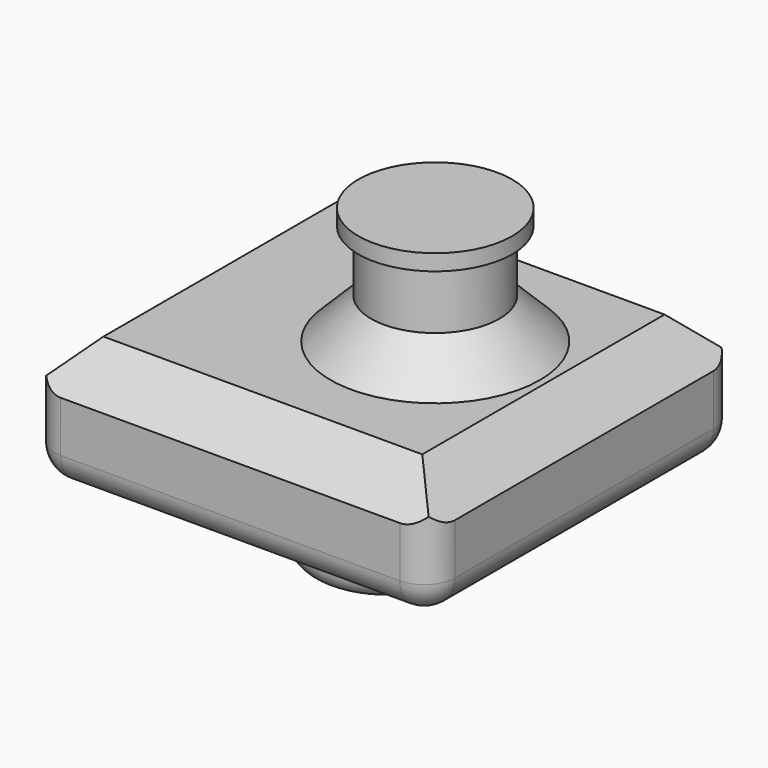
from build123d import *

# Parameters (mm, degrees)
F0_W     = 25
F0_H     = 24
F1_DEPTH = 7.62
F2_R     = 4
F3_DEPTH = 6.35
F4_R     = 4.8022038817
F4_R_2   = 4
F5_DEPTH = 1
F6_SIZE  = 2.54
F7_R     = 1.905
F8_R     = 4.8792946489
F9_DEPTH = 5.08
F10_R    = 1.27


with BuildPart() as f1:
    # F0 (on Top) → F1 (new body)
    with BuildSketch(Plane.XY):
        with Locations((12.5, 12)):
            Rectangle(F0_W, F0_H)
    extrude(amount=F1_DEPTH)

    # F2 (on face) → F3 (join)
    with BuildSketch(Plane.XY.offset(7.62)):
        with Locations((15.5, 12.2524611652)):
            Circle(F2_R)
    extrude(amount=F3_DEPTH)

    # F4 (on face) → F5 (join)
    with BuildSketch(Plane.XY.offset(13.97)):
        with Locations((15.5, 12.2524611652)):
            Circle(F4_R)
        with Locations((15.5, 12.2524611652)):
            Circle(F4_R_2, mode=Mode.SUBTRACT)
        with Locations((15.5, 12.2524611652)):
            Circle(F4_R_2)
    extrude(amount=F5_DEPTH)

    # F6
    f6_edges = [f1.edges().sort_by_distance(p)[0] for p in [
        (0, 12, 7.62),
        (12.5, 24, 7.62),
        (12.5, 0, 7.62),
        (25, 12, 7.62),
        (11.5, 12.252461, 7.62),
    ]]
    chamfer(f6_edges, length=F6_SIZE)

    # F7
    f7_edges = [f1.edges().sort_by_distance(p)[0] for p in [
        (0, 12, 0),
        (12.5, 0, 0),
        (25, 12, 0),
        (12.5, 24, 0),
        (25, 24, 2.54),
        (25, 0, 2.54),
        (0, 0, 2.54),
        (0, 24, 2.54),
    ]]
    fillet(f7_edges, radius=F7_R)

    # F8 (on face) → F9 (join)
    with BuildSketch(Plane(origin=(0, 0, 0), x_dir=(1, 0, 0), z_dir=(0, 0, -1))):
        with Locations((12.7, -12)):
            Circle(F8_R)
    extrude(amount=F9_DEPTH)

    # F10
    f10_edges = [f1.edges().sort_by_distance(p)[0] for p in [
        (7.820705, 12, -5.08),
    ]]
    fillet(f10_edges, radius=F10_R)


solid = f1.part
